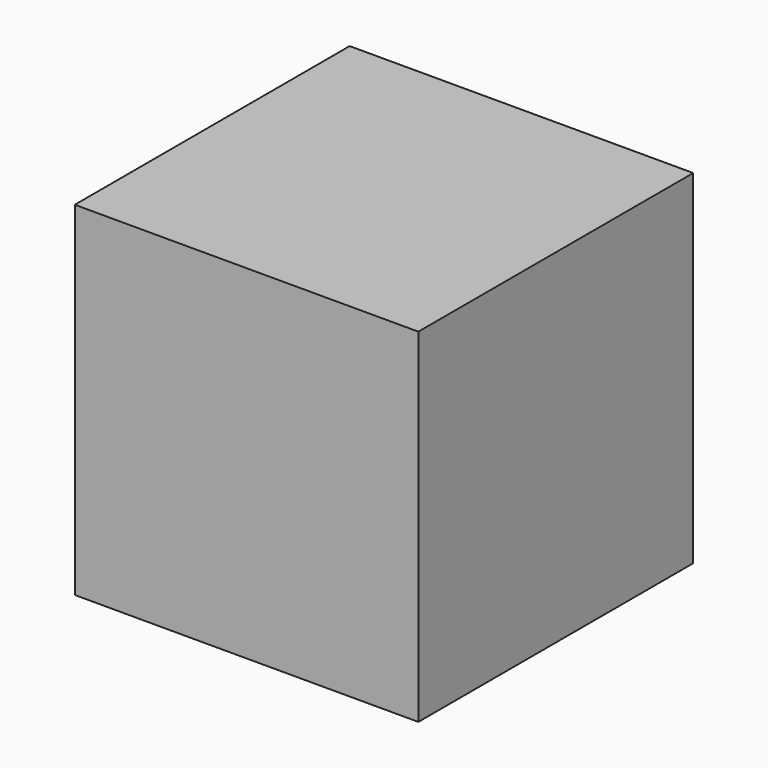
from build123d import *

# Parameters (mm, degrees)
F0_W     = 63.5
F0_H     = 63.5
F1_DEPTH = 63.5
F2_R     = 19.05
F3_DEPTH = 38.1
F4_R     = 19.05
F5_DEPTH = 38.1


with BuildPart() as f1:
    # F0 (on Front) → F1 (new body)
    with BuildSketch(Plane.XZ):
        with Locations((31.75, 31.75)):
            Rectangle(F0_W, F0_H)
    extrude(amount=F1_DEPTH)

    # F2 (on Top) → F3 (join)
    with BuildSketch(Plane.XY):
        Circle(F2_R)
    extrude(amount=F3_DEPTH)

    # F4 (on Top) → F5 (join)
    with BuildSketch(Plane.XY):
        Circle(F4_R)
    extrude(amount=F5_DEPTH)


solid = f1.part
